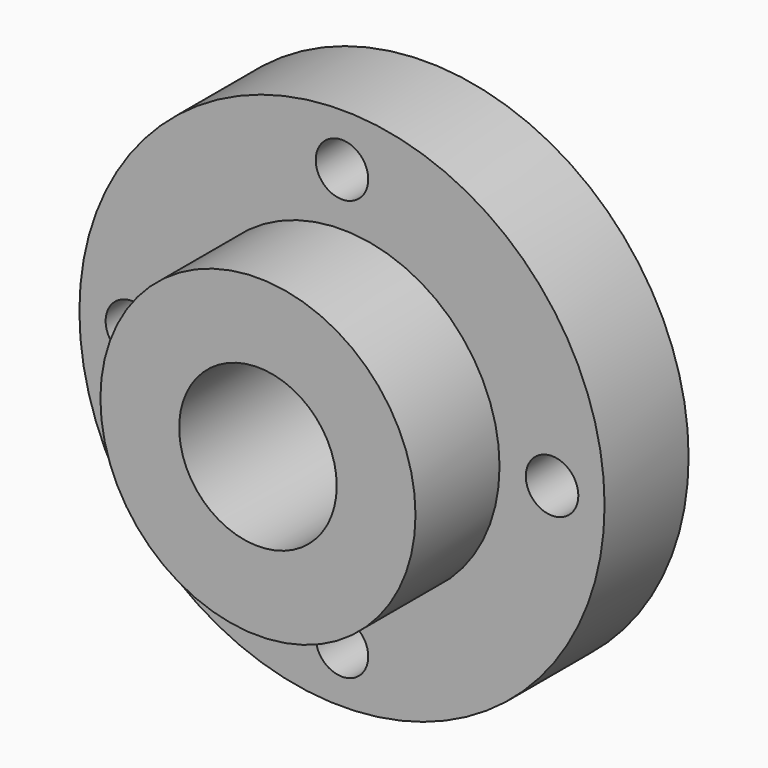
from build123d import *

# Parameters (mm, degrees)
F0_R     = 31.75
F1_DEPTH = 12.7
F2_R     = 19.05
F3_DEPTH = 12.7
F4_R     = 9.525
F5_DEPTH = 25.4
F6_R     = 3.175
F7_DEPTH = 12.7


with BuildPart() as f1:
    # F0 (on Front) → F1 (new body)
    with BuildSketch(Plane.XZ):
        Circle(F0_R)
    extrude(amount=F1_DEPTH)

    # F2 (on face) → F3 (join)
    with BuildSketch(Plane.XZ.offset(12.7)):
        Circle(F2_R)
    extrude(amount=F3_DEPTH)

    # F4 (on face) → F5 (cut)
    with BuildSketch(Plane.XZ.offset(25.4)):
        Circle(F4_R)
    extrude(amount=-F5_DEPTH, mode=Mode.SUBTRACT)

    # F6 (on face) → F7 (cut)
    with BuildSketch(Plane.XZ.offset(12.7)):
        with Locations((25.4, 0)):
            Circle(F6_R)
        with Locations((0, 25.4)):
            Circle(F6_R)
        with Locations((-25.4, 0)):
            Circle(F6_R)
        with Locations((0, -25.4)):
            Circle(F6_R)
    extrude(amount=-F7_DEPTH, mode=Mode.SUBTRACT)


solid = f1.part
